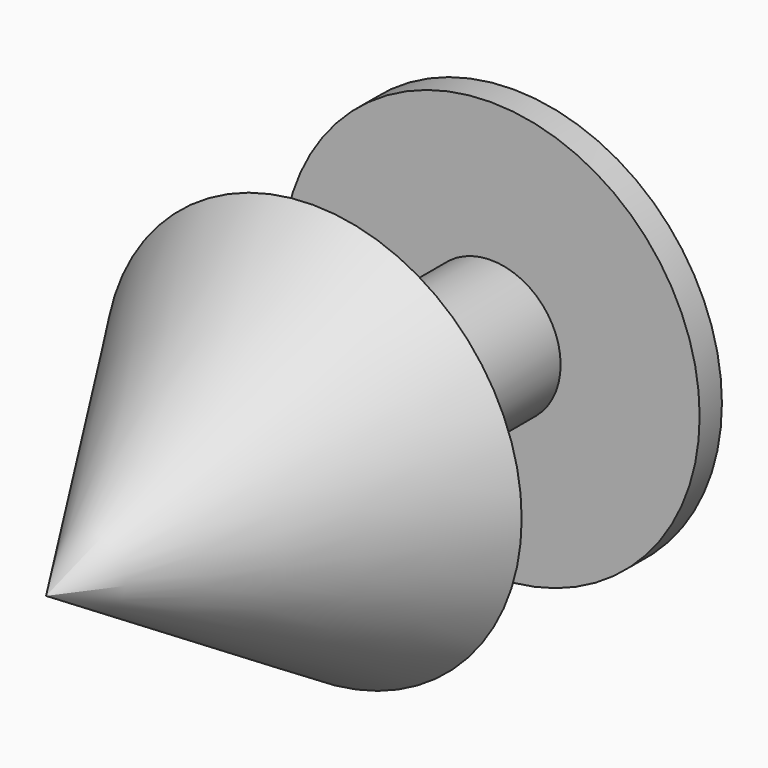
from build123d import *

# Parameters (mm, degrees)
F0_R     = 19.05
F1_DEPTH = 2.54
F2_R     = 6.35
F3_DEPTH = 20.32
F5_R     = 19.05
F6_DEPTH = 30.48
F6_TAPER = 32


with BuildPart() as f1:
    # F0 (on Front) → F1 (new body)
    with BuildSketch(Plane.XZ):
        Circle(F0_R)
    extrude(amount=F1_DEPTH)

    # F2 (on face) → F3 (join)
    with BuildSketch(Plane.XZ.offset(2.54)):
        Circle(F2_R)
    extrude(amount=F3_DEPTH)

    # F5 (on offset) → F6 (join)
    with BuildSketch(Plane(origin=(0, -22.86, 0), x_dir=(-1, 0, 0), z_dir=(0, 1, 0))):
        Circle(F5_R)
    extrude(amount=-F6_DEPTH, taper=F6_TAPER)


solid = f1.part
